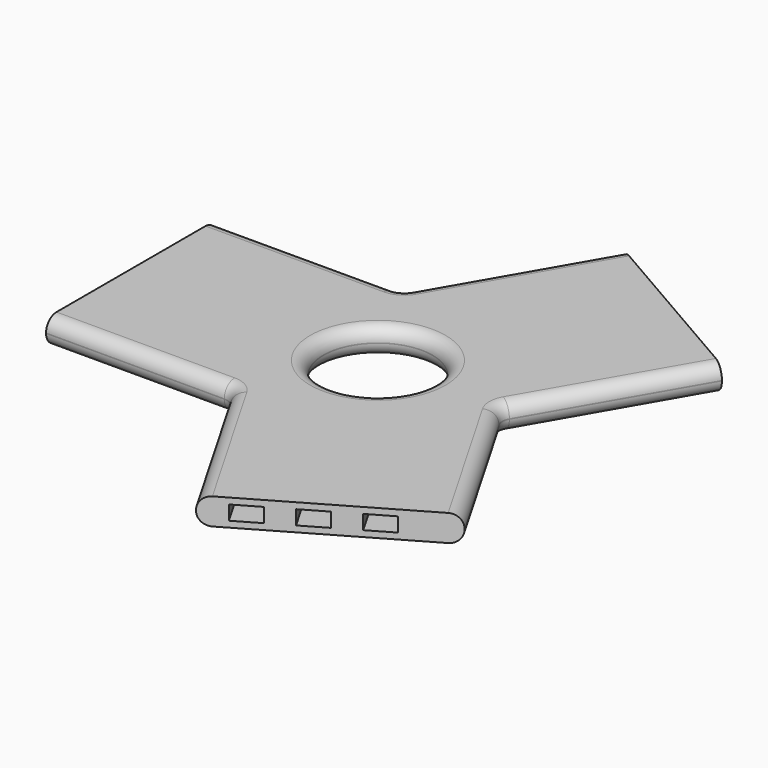
from build123d import *

# Parameters (mm, degrees)
BOX001_W         = 70
BOX001_H         = 10.4
BOX001_DEPTH     = 5.4
ARRAY001_Y_COUNT = 3
ARRAY001_Y_PITCH = 20
ARRAY002_COUNT   = 3
PAD_DEPTH        = 10
SKETCH001_R      = 20.594011
POCKET_DEPTH     = 10.001
FILLET003_R      = 4.9
FILLET004_R      = 4.9


with BuildPart() as array002:
    # Box001 → Box001 (new body)
    with BuildSketch(Plane(origin=(-93.094011, 19.8, 2.3), x_dir=(1, 0, 0), z_dir=(0, 0, 1))):
        with Locations((35, 5.2)):
            Rectangle(BOX001_W, BOX001_H)
    extrude(amount=BOX001_DEPTH)

    # Array001 Y: Array002 ×3


with BuildPart() as array002_1:
    add(array002.part)
    with Locations(*[(0, -i * ARRAY001_Y_PITCH, 0) for i in range(1, ARRAY001_Y_COUNT)]):
        add(array002.part)

    # Array002: Array002 ×3 about axis
    array002_axis = Axis((0, 0, 0), (0, 0, 1))


with BuildPart() as array002_2:
    add(array002_1.part)
    for i in range(1, ARRAY002_COUNT):
        add(array002_1.part.rotate(array002_axis, i * 360 / ARRAY002_COUNT))


with BuildPart() as innerjoinerbase:
    # Sketch (on XY_Plane of Origin) → Pad (new body)
    with BuildSketch(Plane.XY):
        Polygon((-23.094011, 40), (11.905989, 100.621778), (81.188022, 60.621778), (46.188022, 0), (81.188022, -60.621778), (11.905989, -100.621778), (-23.094011, -40), (-93.094011, -40), (-93.094011, 40), align=None)
    extrude(amount=PAD_DEPTH)

    # Sketch001 (on Face11 of Pad) → Pocket (cut, through all)
    with BuildSketch(Plane.XY.offset(10)):
        Circle(SKETCH001_R)
    extrude(amount=-POCKET_DEPTH, mode=Mode.SUBTRACT)

    # Fillet003
    fillet003_edges = [innerjoinerbase.edges().sort_by_distance(p)[0] for p in [
        (-5.594011, -70.310889, 0),
        (-58.094011, -40, 0),
        (-58.094011, -40, 10),
        (-5.594011, -70.310889, 10),
        (-58.094011, 40, 0),
        (-5.594011, 70.310889, 0),
        (-5.594011, 70.310889, 10),
        (-58.094011, 40, 10),
        (63.688022, 30.310889, 10),
        (63.688022, -30.310889, 10),
        (63.688022, -30.310889, 0),
        (63.688022, 30.310889, 0),
        (-23.094011, -40, 5),
        (46.188022, 0, 5),
        (-23.094011, 40, 5),
    ]]
    fillet(fillet003_edges, radius=FILLET003_R)

    # Fillet004
    fillet004_edges = [innerjoinerbase.edges().sort_by_distance(p)[0] for p in [
        (-20.594011, 0, 0),
        (-20.594011, 0, 10),
    ]]
    fillet(fillet004_edges, radius=FILLET004_R)

    # Cut: cut Array002
    add(array002_2.part, mode=Mode.SUBTRACT)


solid = innerjoinerbase.part
